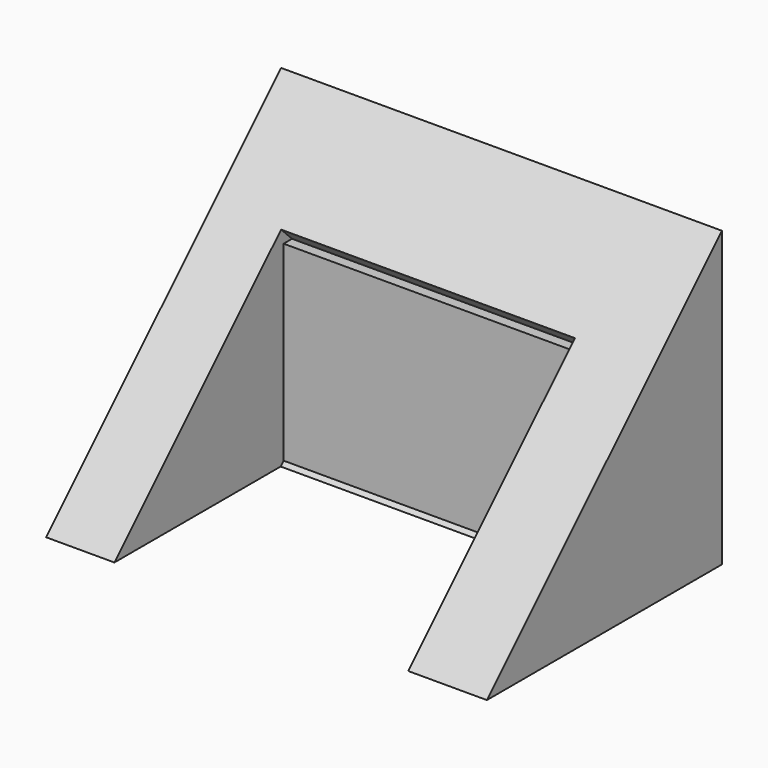
from build123d import *

# Parameters (mm, degrees)
F1_DEPTH = 38.1
F2_W     = 25.3906301223
F2_H     = 25.4694648265
F3_DEPTH = 12.7
F4_W     = 25.981107261
F4_H     = 16.8286710978
F5_DEPTH = 7.112


with BuildPart() as f1:
    # F0 (on Right) → F1 (new body)
    with BuildSketch(Plane.YZ):
        Polygon((-25.3906268626, 0), (0, 0), (0, 25.3906268626), align=None)
    extrude(amount=F1_DEPTH)

    # F2 (on face) → F3 (cut, symmetric)
    with BuildSketch(Plane(origin=(0, -12.6953134313, 12.6953134313), x_dir=(1, 0, 0), z_dir=(0, -0.7071067812, 0.7071067812))):
        with Locations((18.6001111288, -5.2191520199)):
            Rectangle(F2_W, F2_H)
    extrude(amount=F3_DEPTH, both=True, mode=Mode.SUBTRACT)

    # F4 (on Front) → F5 (join)
    with BuildSketch(Plane.XZ):
        with Locations((18.8953496981, 8.4143355489)):
            Rectangle(F4_W, F4_H)
    extrude(amount=F5_DEPTH)


solid = f1.part
